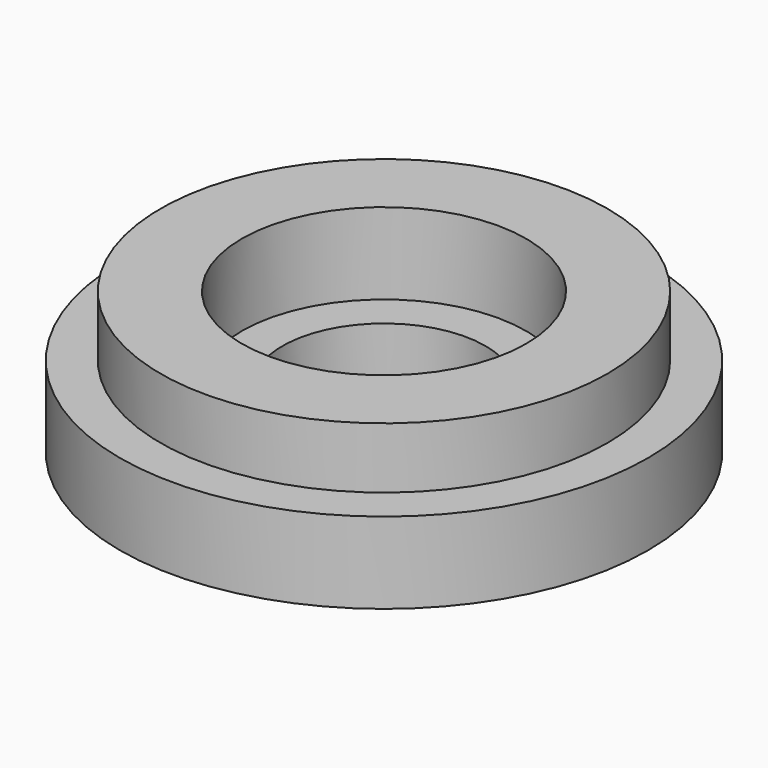
from build123d import *

# Parameters (mm, degrees)
CYLINDER003_R     = 7
CYLINDER003_DEPTH = 4
CYLINDER002_R     = 5
CYLINDER002_DEPTH = 7
CYLINDER001_R     = 11
CYLINDER001_DEPTH = 3
CYLINDER_R        = 13
CYLINDER_DEPTH    = 4


with BuildPart() as cilindro003:
    # Cylinder003 → Cylinder003 (new body)
    with BuildSketch(Plane.XY.offset(3)):
        Circle(CYLINDER003_R)
    extrude(amount=CYLINDER003_DEPTH)


with BuildPart() as cilindro002:
    # Cylinder002 → Cylinder002 (new body)
    with BuildSketch(Plane.XY):
        Circle(CYLINDER002_R)
    extrude(amount=CYLINDER002_DEPTH)


with BuildPart() as cilindro001:
    # Cylinder001 → Cylinder001 (new body)
    with BuildSketch(Plane.XY.offset(4)):
        Circle(CYLINDER001_R)
    extrude(amount=CYLINDER001_DEPTH)


with BuildPart() as cut001:
    # Cylinder → Cylinder (new body)
    with BuildSketch(Plane.XY):
        Circle(CYLINDER_R)
    extrude(amount=CYLINDER_DEPTH)

    # Fusion: union Cilindro001
    add(cilindro001.part)

    # Cut: cut Cilindro002
    add(cilindro002.part, mode=Mode.SUBTRACT)

    # Cut001: cut Cilindro003
    add(cilindro003.part, mode=Mode.SUBTRACT)


solid = cut001.part
